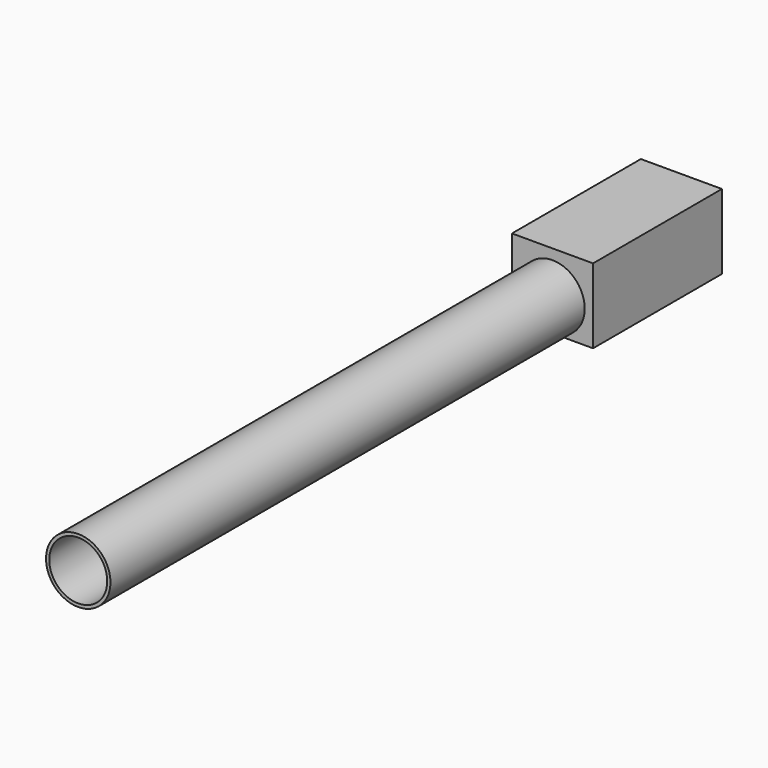
from build123d import *

# Parameters (mm, degrees)
F0_R     = 5
F0_R_2   = 4.5
F1_DEPTH = 117
F2_W     = 12.579926
F2_H     = 11.607275
F2_R     = 4.5
F3_DEPTH = 25


with BuildPart() as f1:
    # F0 (on Front) → F1 (new body)
    with BuildSketch(Plane.XZ):
        Circle(F0_R)
        Circle(F0_R_2, mode=Mode.SUBTRACT)
    extrude(amount=F1_DEPTH)

    # F2 (on Front) → F3 (join)
    with BuildSketch(Plane.XZ):
        with Locations((3.7e-05, 0.803637)):
            Rectangle(F2_W, F2_H)
        Circle(F2_R, mode=Mode.SUBTRACT)
    extrude(amount=F3_DEPTH)


solid = f1.part
